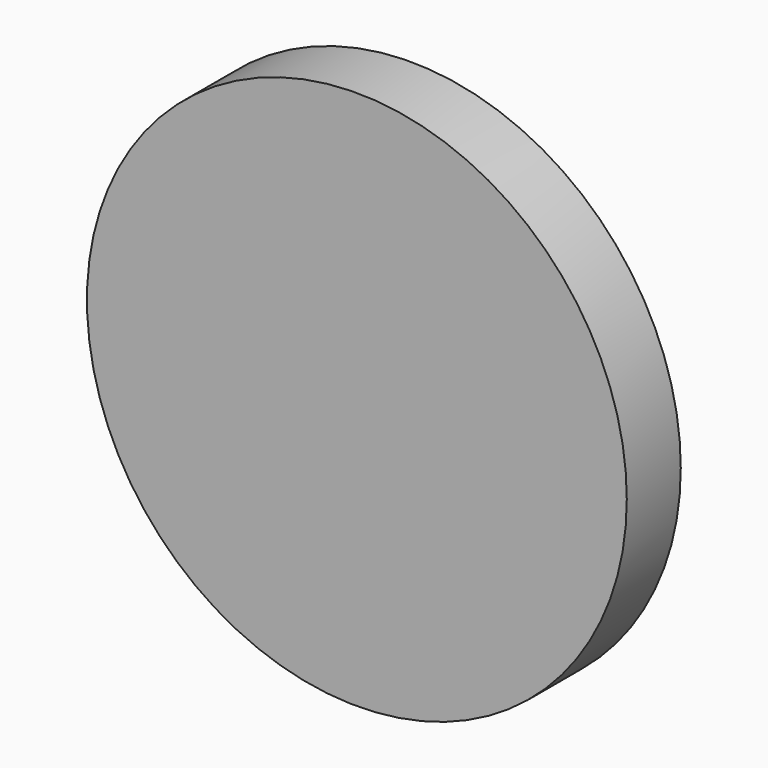
from build123d import *


with BuildPart() as f1:
    # F0 (on Top) → F1 (revolve)
    with BuildSketch(Plane.XY):
        with BuildLine():
            add(Edge.make_bspline(
                [(0, 17.133245), (6.423874, 17.063444), (7.361955, 18.017167), (20, 19.376332)],
                knots=[0, 0, 0, 0, 20.125393, 20.125393, 20.125393, 20.125393], degree=3))
            Line((0, 17.133245), (0, 4.376332))
            Line((0, 4.376332), (40, 4.376332))
            Line((40, 4.376332), (40, 14.376332))
            Line((40, 14.376332), (20, 14.376332))
            Line((20, 14.376332), (20, 19.376332))
        make_face()
    revolve(axis=Axis((0, 10.754789, 0), (0, -1, 0)))


solid = f1.part
